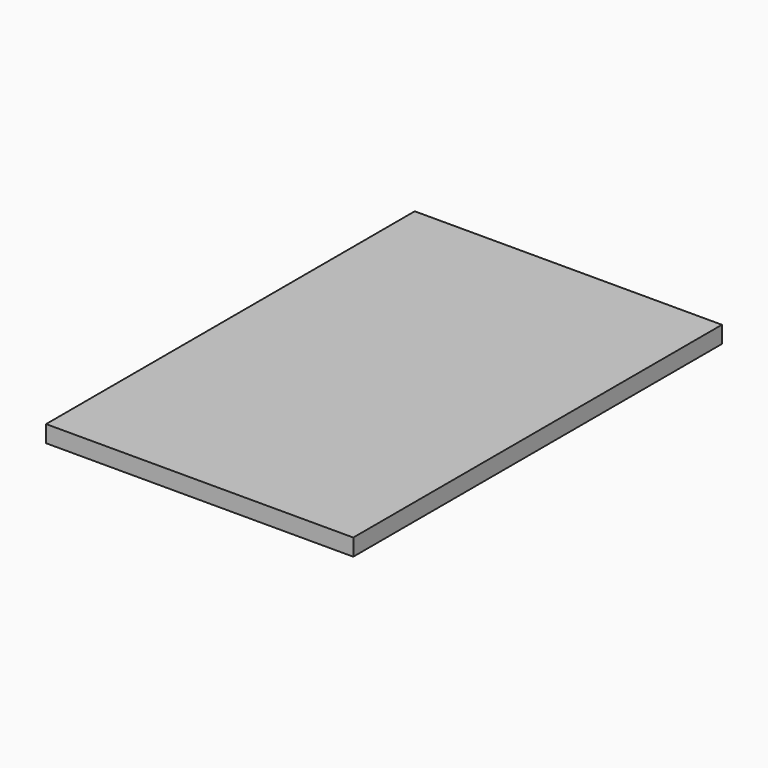
from build123d import *

# Parameters (mm, degrees)
BOX_W     = 203.2
BOX_H     = 304.8
BOX_DEPTH = 11.176


with BuildPart() as part:
    # Box → Box (new body)
    with BuildSketch(Plane.XY):
        with Locations((101.6, 152.4)):
            Rectangle(BOX_W, BOX_H)
    extrude(amount=BOX_DEPTH)


solid = part.part
